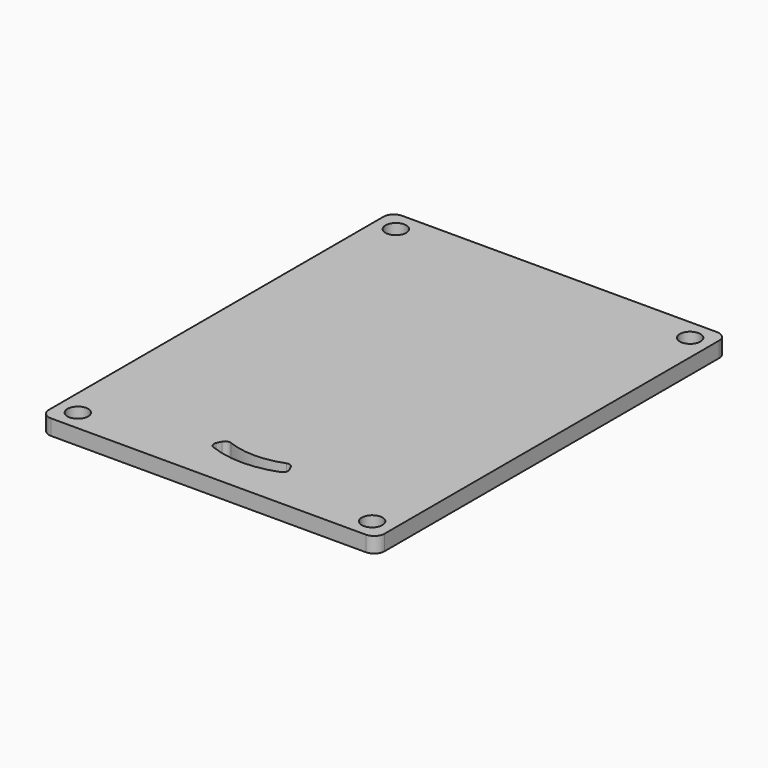
from build123d import *

# Parameters (mm, degrees)
F0_W     = 65
F0_H     = 85
F0_R     = 2
F1_DEPTH = 3
F2_R     = 2
F3_R     = 1


with BuildPart() as f1:
    # F0 (on Top) → F1 (new body)
    with BuildSketch(Plane.XY):
        with Locations((-1.109155, -6.003008)):
            Rectangle(F0_W, F0_H)
        with Locations((-29.609155, -44.503008)):
            Circle(F0_R, mode=Mode.SUBTRACT)
        with BuildLine():
            Line((-7.5, -40.125584), (-6.25, -37.398406))
            ThreePointArc((-6.25, -37.398406), (0, -38.762516), (6.25, -37.398406))
            Line((6.25, -37.398406), (7.5, -40.125584))
            ThreePointArc((7.5, -40.125584), (0, -41.762516), (-7.5, -40.125584))
        make_face(mode=Mode.SUBTRACT)
        with Locations((27.390845, -44.503008)):
            Circle(F0_R, mode=Mode.SUBTRACT)
        with Locations((-29.609155, 32.496992)):
            Circle(F0_R, mode=Mode.SUBTRACT)
        with Locations((27.390845, 32.496992)):
            Circle(F0_R, mode=Mode.SUBTRACT)
    extrude(amount=F1_DEPTH)

    # F2
    f2_edges = [f1.edges().sort_by_distance(p)[0] for p in [
        (31.390845, 36.496992, 1.5),
        (31.390845, -48.503008, 1.5),
        (-33.609155, -48.503008, 1.5),
        (-33.609155, 36.496992, 1.5),
    ]]
    fillet(f2_edges, radius=F2_R)

    # F3
    f3_edges = [f1.edges().sort_by_distance(p)[0] for p in [
        (-7.5, -40.125584, 1.5),
        (-6.25, -37.398406, 1.5),
        (6.25, -37.398406, 1.5),
        (7.5, -40.125584, 1.5),
    ]]
    fillet(f3_edges, radius=F3_R)


solid = f1.part
